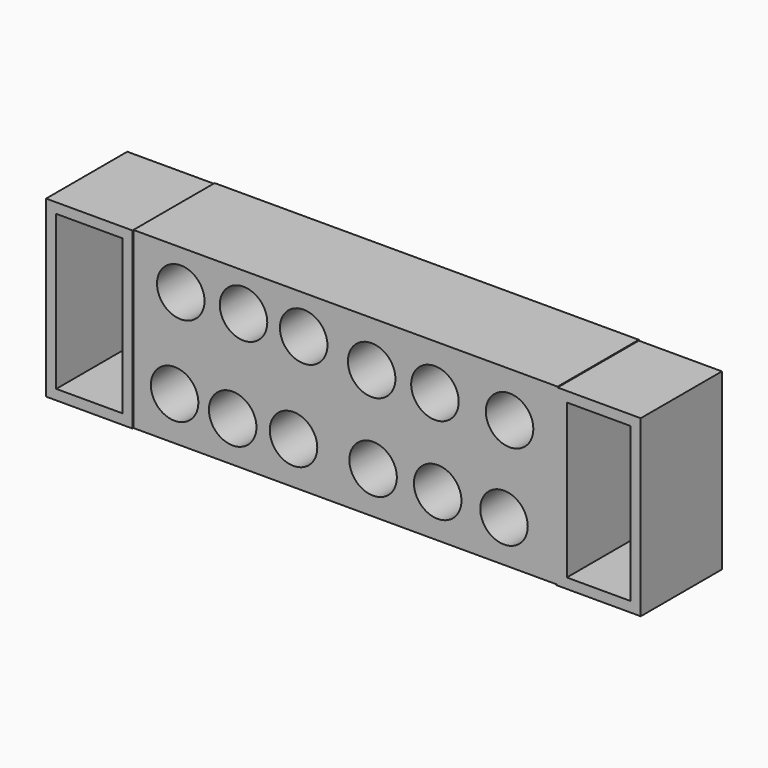
from build123d import *

# Parameters (mm, degrees)
F0_W     = 21.6243267059
F0_H     = 43.6418168247
F1_DEPTH = 25.4
F0_W_2   = 21.0345685482
F2_T     = -2.54
F2_2_T   = -2.54
F3_W     = 106.1557754874
F3_H     = 43.6440445483
F4_DEPTH = 25.4
F5_R     = 5.9434435219
F6_DEPTH = 75.184


with BuildPart() as f1:
    # F0 (on Front) → F1 (new body)
    with BuildSketch(Plane.XZ):
        with Locations((-51.1120408773, -7.0770513266)):
            Rectangle(F0_W, F0_H)
    extrude(amount=F1_DEPTH)

    # F2#2
    f2_2_openings = [f1.faces().sort_by_distance(p)[0] for p in [
        (-51.112041, -25.4, -7.077051),
    ]]
    offset(amount=F2_2_T, openings=f2_2_openings)


with BuildPart() as f1b:
    # F0 (on Front) → F1, piece 2 (new body)
    with BuildSketch(Plane.XZ):
        with Locations((76.3731822371, -7.0770513266)):
            Rectangle(F0_W_2, F0_H)
    extrude(amount=F1_DEPTH)

    # F2
    f2_openings = [f1b.faces().sort_by_distance(p)[0] for p in [
        (76.373182, -25.4, -7.077051),
    ]]
    offset(amount=F2_T, openings=f2_openings)

    # F3 (on Front) → F4 (join)
    with BuildSketch(Plane.XZ):
        with Locations((13.0120404065, -6.8808179349)):
            Rectangle(F3_W, F3_H)
    extrude(amount=F4_DEPTH)

    # F5 (on Front) → F6 (cut)
    with BuildSketch(Plane.XZ):
        with Locations((-29.7606922686, -17.8204365075)):
            Circle(F5_R)
        with Locations((-15.2278486639, -18.5308177024)):
            Circle(F5_R)
        with Locations((0, -18.0826429278)):
            Circle(F5_R)
        with Locations((19.9171081185, -18.1694161147)):
            Circle(F5_R)
        with Locations((36.0753312707, -18.0209558457)):
            Circle(F5_R)
        with Locations((52.6777617633, -18.2640459388)):
            Circle(F5_R)
        with Locations((54.0743649769, 3.6217127527)):
            Circle(F5_R)
        with Locations((35.3932604194, 3.5523551051)):
            Circle(F5_R)
        with Locations((19.5560548455, 3.4549408592)):
            Circle(F5_R)
        with Locations((2.5400002487, 5.2987192757)):
            Circle(F5_R)
        with Locations((-12.5105176121, 5.4656430148)):
            Circle(F5_R)
        with Locations((-28.2187122126, 5.0482510096)):
            Circle(F5_R)
    extrude(amount=F6_DEPTH, mode=Mode.SUBTRACT)


solid = Compound([f1.part, f1b.part])
